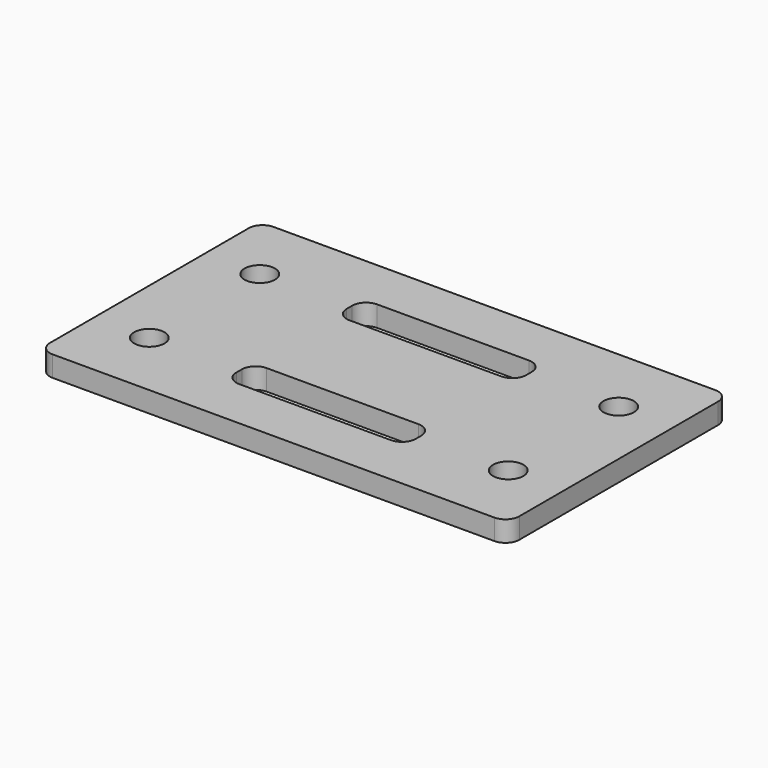
from build123d import *

# Parameters (mm, degrees)
F0_R     = 1.1
F1_DEPTH = 1.5


with BuildPart() as f1:
    # F0 (on Top) → F1 (new body)
    with BuildSketch(Plane.XY):
        with BuildLine():
            ThreePointArc((17, 9), (16.707107, 9.707107), (16, 10))
            Line((16, 10), (-16, 10))
            ThreePointArc((-16, 10), (-16.707107, 9.707107), (-17, 9))
            Line((-17, 9), (-17, -9))
            ThreePointArc((-17, -9), (-16.707107, -9.707107), (-16, -10))
            Line((-16, -10), (16, -10))
            ThreePointArc((16, -10), (16.707107, -9.707107), (17, -9))
            Line((17, -9), (17, 9))
        make_face()
        with Locations((-13, -5)):
            Circle(F0_R, mode=Mode.SUBTRACT)
        with BuildLine():
            ThreePointArc((-5.5, -6.25), (-6.207107, -5.957107), (-6.5, -5.25))
            Line((-6.5, -5.25), (-6.5, -4.75))
            ThreePointArc((-6.5, -4.75), (-6.207107, -4.042893), (-5.5, -3.75))
            Line((-5.5, -3.75), (5.5, -3.75))
            ThreePointArc((5.5, -3.75), (6.207107, -4.042893), (6.5, -4.75))
            Line((6.5, -4.75), (6.5, -5.25))
            ThreePointArc((6.5, -5.25), (6.207107, -5.957107), (5.5, -6.25))
            Line((5.5, -6.25), (-5.5, -6.25))
        make_face(mode=Mode.SUBTRACT)
        with Locations((13, -5)):
            Circle(F0_R, mode=Mode.SUBTRACT)
        with Locations((-13, 5)):
            Circle(F0_R, mode=Mode.SUBTRACT)
        with BuildLine():
            ThreePointArc((-6.5, 5.25), (-6.207107, 5.957107), (-5.5, 6.25))
            Line((-5.5, 6.25), (5.5, 6.25))
            ThreePointArc((5.5, 6.25), (6.207107, 5.957107), (6.5, 5.25))
            Line((6.5, 5.25), (6.5, 4.75))
            ThreePointArc((6.5, 4.75), (6.207107, 4.042893), (5.5, 3.75))
            Line((5.5, 3.75), (-5.5, 3.75))
            ThreePointArc((-5.5, 3.75), (-6.207107, 4.042893), (-6.5, 4.75))
            Line((-6.5, 4.75), (-6.5, 5.25))
        make_face(mode=Mode.SUBTRACT)
        with Locations((13, 5)):
            Circle(F0_R, mode=Mode.SUBTRACT)
    extrude(amount=F1_DEPTH)


solid = f1.part
